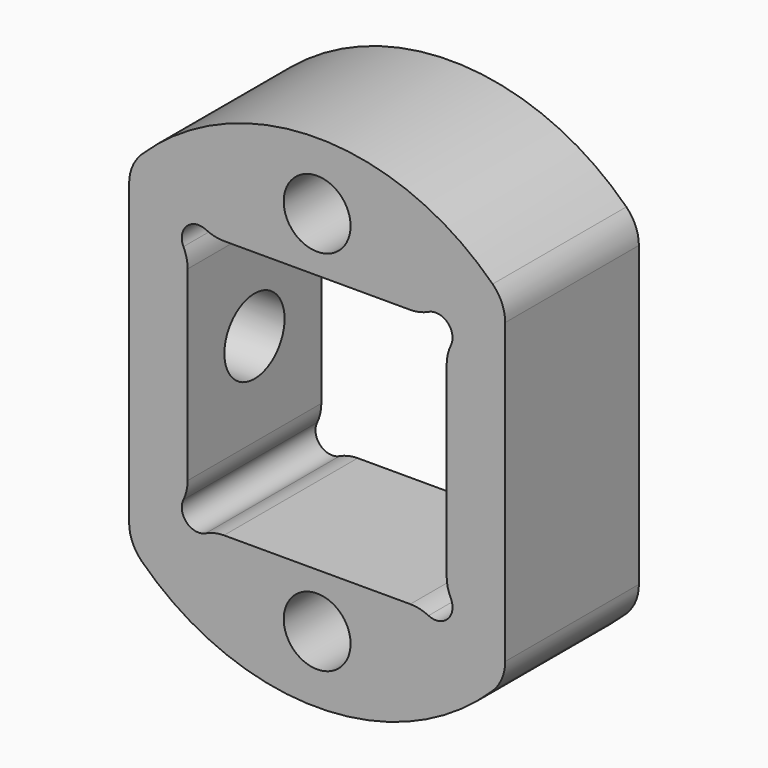
from build123d import *

# Parameters (mm, degrees)
F0_R     = 30
F0_W     = 31
F0_H     = 31
F1_DEPTH = 20
F2_R     = 4
F3_DEPTH = 48.3
F4_W     = 47.4329847097
F4_H     = 80
F4_W_2   = 35.6862902641
F5_DEPTH = 29.8
F6_R     = 4.5
F7_DEPTH = 22.501
F8_R     = 2
F9_DEPTH = 20.001
F10_R    = 5
F11_R    = 5


with BuildPart() as f1:
    # F0 (on Front) → F1 (new body)
    with BuildSketch(Plane.XZ):
        Circle(F0_R)
        Rectangle(F0_W, F0_H, mode=Mode.SUBTRACT)
    extrude(amount=F1_DEPTH)

    # F2 (on Front) → F3 (cut)
    with BuildSketch(Plane.XZ):
        with Locations((0, 22)):
            Circle(F2_R)
        with Locations((0, -22)):
            Circle(F2_R)
    extrude(amount=F3_DEPTH, mode=Mode.SUBTRACT)

    # F4 (on Front) → F5 (cut)
    with BuildSketch(Plane.XZ):
        with Locations((-46.2164923549, 0)):
            Rectangle(F4_W, F4_H)
        with Locations((40.3431451321, 0)):
            Rectangle(F4_W_2, F4_H)
    extrude(amount=F5_DEPTH, mode=Mode.SUBTRACT)

    # F6 (on Right) → F7 (cut, through all)
    with BuildSketch(Plane.YZ):
        with Locations((-10, 0)):
            Circle(F6_R)
    extrude(amount=-F7_DEPTH, mode=Mode.SUBTRACT)

    # F8 (on Front) → F9 (cut, through all)
    with BuildSketch(Plane.XZ):
        with Locations((-14.2, 14.2)):
            Circle(F8_R)
        with Locations((14.2, 14.2)):
            Circle(F8_R)
        with Locations((-14.2, -14.2)):
            Circle(F8_R)
        with Locations((14.2, -14.2)):
            Circle(F8_R)
    extrude(amount=F9_DEPTH, mode=Mode.SUBTRACT)

    # F10
    f10_edges = [f1.edges().sort_by_distance(p)[0] for p in [
        (-12.680132, -10, 15.5),
        (-15.5, -10, 12.680132),
        (12.680132, -10, 15.5),
        (15.5, -10, 12.680132),
        (15.5, -10, -12.680132),
        (12.680132, -10, -15.5),
        (-12.680132, -10, -15.5),
        (-15.5, -10, -12.680132),
    ]]
    fillet(f10_edges, radius=F10_R)

    # F11
    f11_edges = [f1.edges().sort_by_distance(p)[0] for p in [
        (-22.5, -10, 19.843135),
        (-22.5, -10, -19.843135),
        (22.5, -10, 19.843135),
        (22.5, -10, -19.843135),
    ]]
    fillet(f11_edges, radius=F11_R)


solid = f1.part
